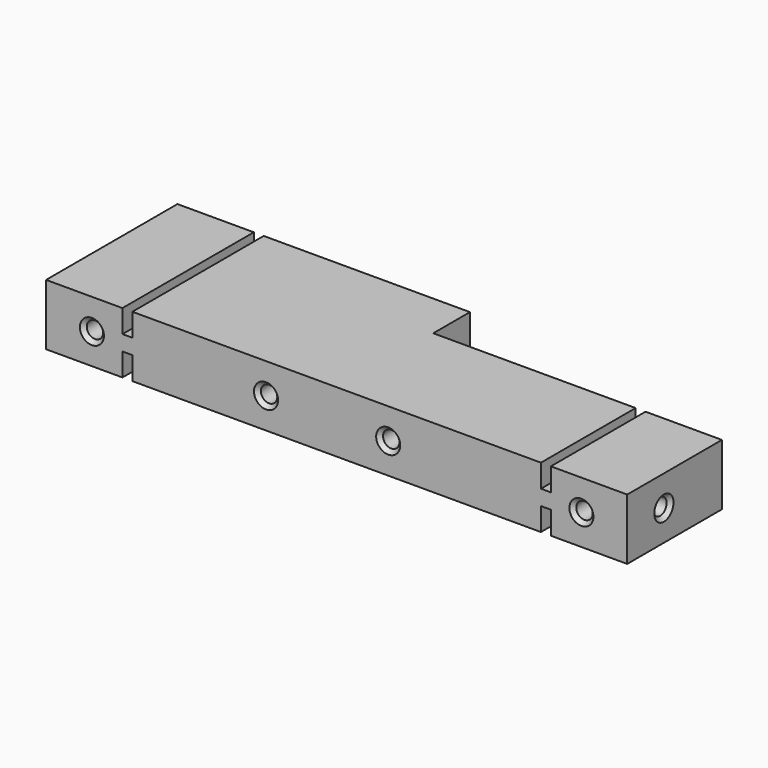
from build123d import *

# Parameters (mm, degrees)
PAD_DEPTH       = 16
SKETCH001_R     = 2.15
SKETCH001_W     = 2.6
SKETCH001_H     = 6
POCKET_DEPTH    = 43.001
CHAMFER_SIZE    = 1
SKETCH002_R     = 2.15
POCKET001_DEPTH = 8
SKETCH003_R     = 2.15
POCKET002_DEPTH = 8
CHAMFER001_SIZE = 1


with BuildPart() as part:
    # Sketch → Pad (new body)
    with BuildSketch(Plane.XY):
        Polygon((0, 0), (0, 43), (76.6, 43), (76.6, 31), (152.2, 31), (152.2, 0), align=None)
    extrude(amount=PAD_DEPTH)

    # Sketch001 → Pocket (cut, through all)
    with BuildSketch(Plane.XZ):
        with Locations((12, 8)):
            Circle(SKETCH001_R)
        with Locations((89.6, 8)):
            Circle(SKETCH001_R)
        with Locations((140.2, 8)):
            Circle(SKETCH001_R)
        with Locations((57.6, 8)):
            Circle(SKETCH001_R)
        with Locations((21.3, 3)):
            Rectangle(SKETCH001_W, SKETCH001_H)
        with Locations((21.3, 13)):
            Rectangle(SKETCH001_W, SKETCH001_H)
        with Locations((130.9, 13)):
            Rectangle(SKETCH001_W, SKETCH001_H)
        with Locations((130.9, 3)):
            Rectangle(SKETCH001_W, SKETCH001_H)
    extrude(amount=-POCKET_DEPTH, mode=Mode.SUBTRACT)

    # Chamfer
    chamfer_edges = [part.edges().sort_by_distance(p)[0] for p in [
        (9.85, 0, 8),
        (55.45, 0, 8),
        (87.45, 0, 8),
        (138.05, 0, 8),
        (9.85, 43, 8),
        (55.45, 43, 8),
        (87.45, 31, 8),
        (138.05, 31, 8),
    ]]
    chamfer(chamfer_edges, length=CHAMFER_SIZE)

    # Sketch002 → Pocket001 (cut)
    with BuildSketch(Plane.YZ):
        with Locations((12, 8)):
            Circle(SKETCH002_R)
    extrude(amount=POCKET001_DEPTH, mode=Mode.SUBTRACT)

    # Sketch003 (on DatumPlane) → Pocket002 (cut)
    with BuildSketch(Plane.YZ.offset(152.2)):
        with Locations((12, 8)):
            Circle(SKETCH003_R)
    extrude(amount=-POCKET002_DEPTH, mode=Mode.SUBTRACT)

    # Chamfer001
    chamfer001_edges = [part.edges().sort_by_distance(p)[0] for p in [
        (152.2, 9.85, 8),
        (0, 9.85, 8),
    ]]
    chamfer(chamfer001_edges, length=CHAMFER001_SIZE)


solid = part.part
